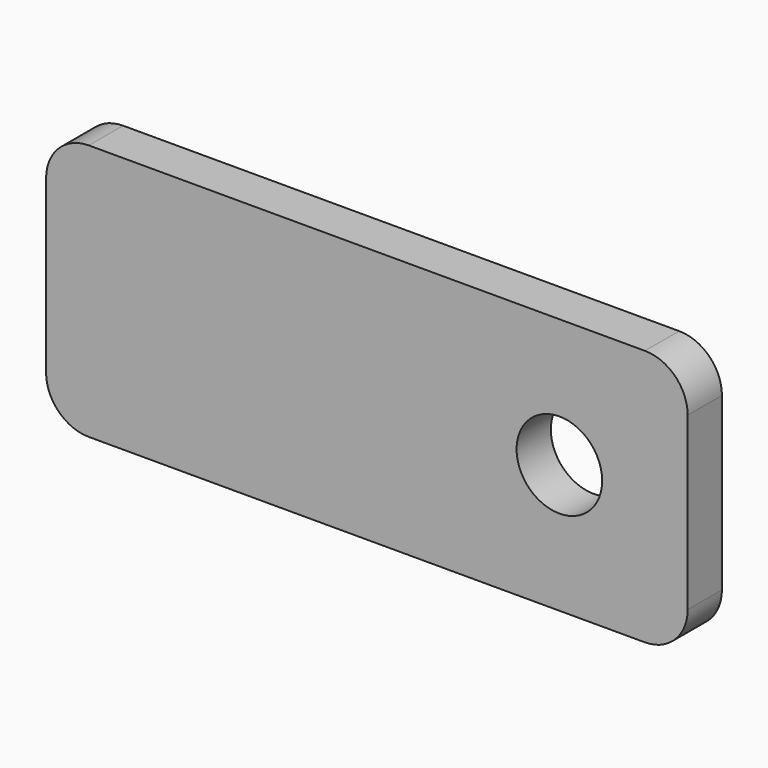
from build123d import *

# Parameters (mm, degrees)
F0_R     = 3
F1_DEPTH = 3


with BuildPart() as f1:
    # F0 (on Front) → F1 (new body)
    with BuildSketch(Plane.XZ):
        with BuildLine():
            Line((-19.5, -9), (19.5, -9))
            ThreePointArc((19.5, -9), (21.62132, -8.12132), (22.5, -6))
            Line((22.5, -6), (22.5, 6))
            ThreePointArc((22.5, 6), (21.62132, 8.12132), (19.5, 9))
            Line((19.5, 9), (-19.5, 9))
            ThreePointArc((-19.5, 9), (-21.62132, 8.12132), (-22.5, 6))
            Line((-22.5, 6), (-22.5, -6))
            ThreePointArc((-22.5, -6), (-21.62132, -8.12132), (-19.5, -9))
        make_face()
        with Locations((13.5, 0)):
            Circle(F0_R, mode=Mode.SUBTRACT)
    extrude(amount=F1_DEPTH)


solid = f1.part
